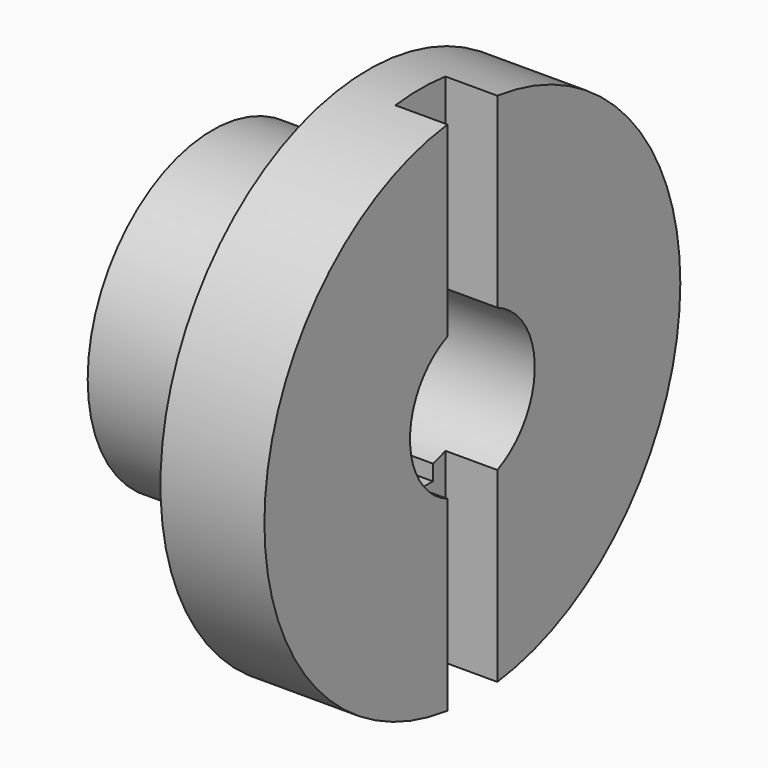
from build123d import *

# Parameters (mm, degrees)
F2_DEPTH      = 50.001
F2_DEPTH_BACK = 50.001
F3_R          = 15
F4_DEPTH      = 50.001
F6_DEPTH      = 50.001


with BuildPart() as f1:
    # F0 (on Top) → F1 (revolve)
    with BuildSketch(Plane.XY):
        with BuildLine():
            Line((-20, 0), (0, 0))
            Line((0, 0), (0, 15))
            Line((0, 15), (0, 35))
            Line((0, 35), (-20, 35))
            Line((-20, 35), (-20, 20))
            ThreePointArc((-20, 20), (-21.4644660941, 16.4644660941), (-25, 15))
            Line((-25, 15), (-50, 15))
            Line((-50, 15), (-50, 0))
            Line((-50, 0), (-20, 0))
        make_face()
        Polygon((0, -9), (0, 0), (-20, 0), (-50, 0), (-50, -15), (-10, -15), (-10, -9), align=None)
    revolve(axis=Axis((-30, -15, 0), (1, 0, 0)))

    # F0 (on Top) → F2 (cut, two sides)
    with BuildSketch(Plane.XY) as f2_sk:
        Polygon((0, -21), (0, -9), (-10, -9), (-10, -15), (-10, -21), align=None)
    extrude(amount=-F2_DEPTH, mode=Mode.SUBTRACT)
    extrude(f2_sk.sketch, amount=F2_DEPTH_BACK, mode=Mode.SUBTRACT)

    # F3 (on face) → F4 (cut, through all)
    with BuildSketch(Plane(origin=(-50, 0, 0), x_dir=(0, -1, 0), z_dir=(-1, 0, 0))):
        with Locations((15, 0)):
            Circle(F3_R)
    extrude(amount=-F4_DEPTH, mode=Mode.SUBTRACT)

    # F5 (on face) → F6 (cut, through all)
    with BuildSketch(Plane.YZ):
        with BuildLine():
            Line((-12, -17.6969384567), (-12, -14.6969384567))
            ThreePointArc((-12, -14.6969384567), (-15, -15), (-18, -14.6969384567))
            Line((-18, -14.6969384567), (-18, -17.6969384567))
            Line((-18, -17.6969384567), (-15, -17.6969384567))
            Line((-15, -17.6969384567), (-12, -17.6969384567))
        make_face()
    extrude(amount=-F6_DEPTH, mode=Mode.SUBTRACT)


solid = f1.part
